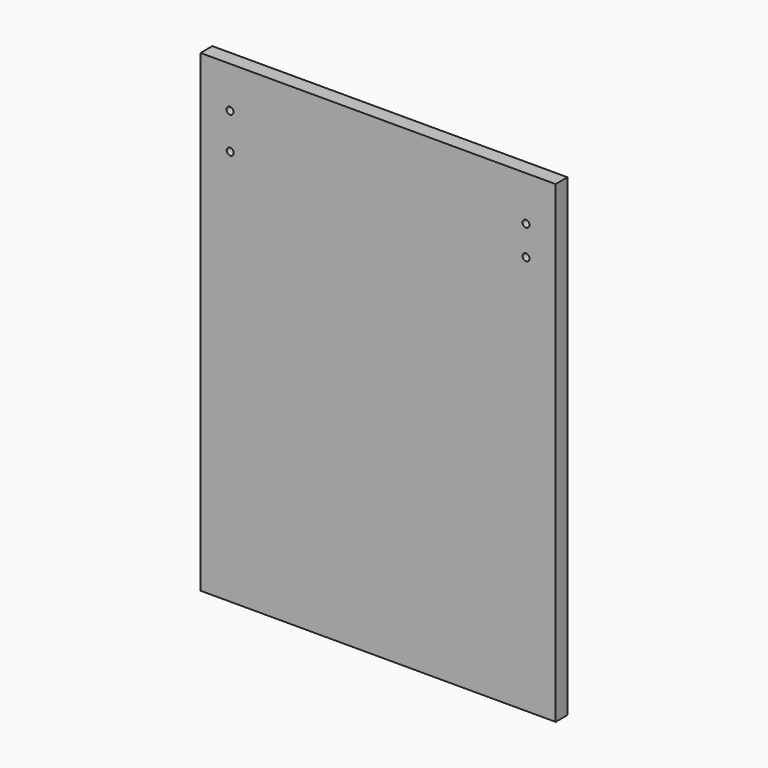
from build123d import *

# Parameters (mm, degrees)
F0_W     = 152.4
F0_H     = 203.2
F1_DEPTH = 6.35
F2_R     = 1.5
F4_DEPTH = 14.4018
F5_DEPTH = 25.4


with BuildPart() as f1:
    # F0 (on Front) → F1 (new body)
    with BuildSketch(Plane.XZ):
        Rectangle(F0_W, F0_H)
    extrude(amount=F1_DEPTH)

    # F2 (on Front) → F4 (cut)
    with BuildSketch(Plane.XZ):
        with Locations((-63.536064, 83.890614)):
            Circle(F2_R)
        with Locations((-63.468215, 68.440081)):
            Circle(F2_R)
    extrude(amount=F4_DEPTH, mode=Mode.SUBTRACT)

    # F3 (on Front) → F5 (cut)
    with BuildSketch(Plane.XZ):
        with BuildLine():
            ThreePointArc((65, 82.509852), (64.56066, 83.570512), (63.5, 84.009852))
            Line((63.5, 84.009852), (63.5, 82.509852))
            Line((63.5, 82.509852), (63.5, 81.009852))
            ThreePointArc((63.5, 81.009852), (64.56066, 81.449192), (65, 82.509852))
        make_face()
        with BuildLine():
            ThreePointArc((65, 69.80985), (64.56066, 70.87051), (63.5, 71.30985))
            ThreePointArc((63.5, 71.30985), (62.43934, 68.749189), (65, 69.80985))
        make_face()
        with BuildLine():
            Line((63.5, 82.509852), (63.5, 84.009852))
            ThreePointArc((63.5, 84.009852), (62, 82.509852), (63.5, 81.009852))
            Line((63.5, 81.009852), (63.5, 82.509852))
        make_face()
    extrude(amount=F5_DEPTH, mode=Mode.SUBTRACT)


solid = f1.part
